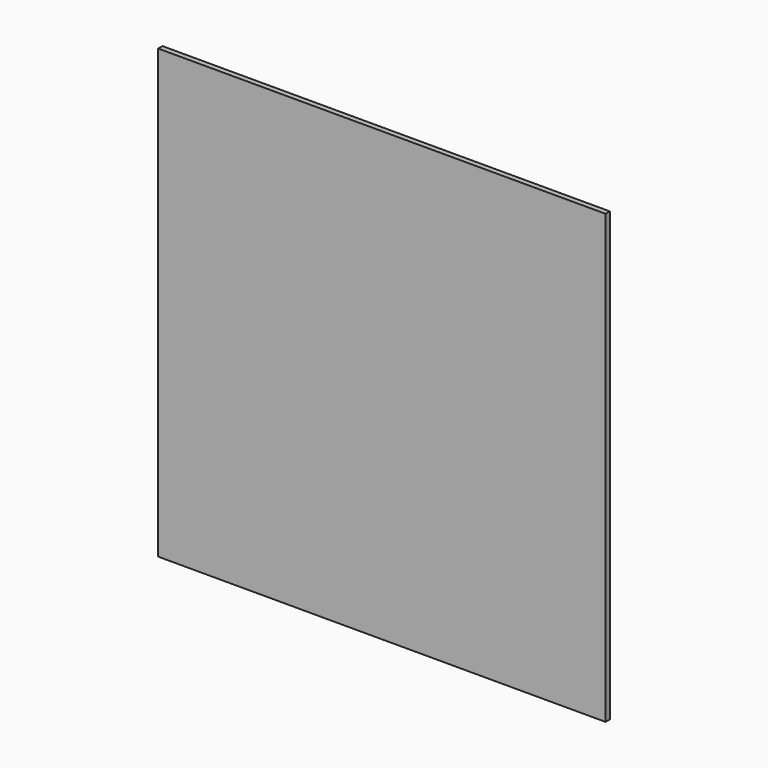
from build123d import *

# Parameters (mm, degrees)
F0_W     = 420
F0_H     = 420
F1_DEPTH = 2.5
F2_DEPTH = 2.5


with BuildPart() as f1:
    # F0 (on Front) → F1 (new body)
    with BuildSketch(Plane.XZ):
        Rectangle(F0_W, F0_H)
    extrude(amount=F1_DEPTH)

    # F0 (on Front) → F2 (join)
    with BuildSketch(Plane.XZ):
        Rectangle(F0_W, F0_H)
    extrude(amount=-F2_DEPTH)


solid = f1.part
